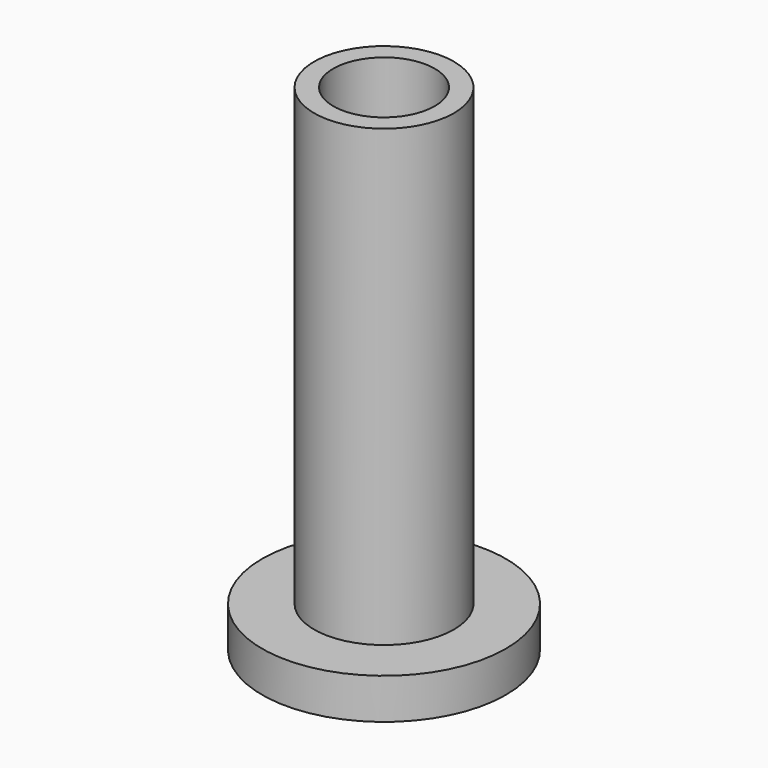
from build123d import *

# Parameters (mm, degrees)
F0_R          = 4.3688
F0_R_2        = 3.175
F1_DEPTH      = 28.4226
F1_DEPTH_BACK = 2.54
F0_R_3        = 7.62
F2_DEPTH      = 2.54


with BuildPart() as f1:
    # F0 (on Top) → F1 (new body, two sides)
    with BuildSketch(Plane.XY) as f1_sk:
        Circle(F0_R)
        Circle(F0_R_2, mode=Mode.SUBTRACT)
    extrude(amount=F1_DEPTH)
    extrude(f1_sk.sketch, amount=-F1_DEPTH_BACK)

    # F0 (on Top) → F2 (join)
    with BuildSketch(Plane.XY):
        Circle(F0_R_3)
        Circle(F0_R, mode=Mode.SUBTRACT)
    extrude(amount=-F2_DEPTH)


solid = f1.part
